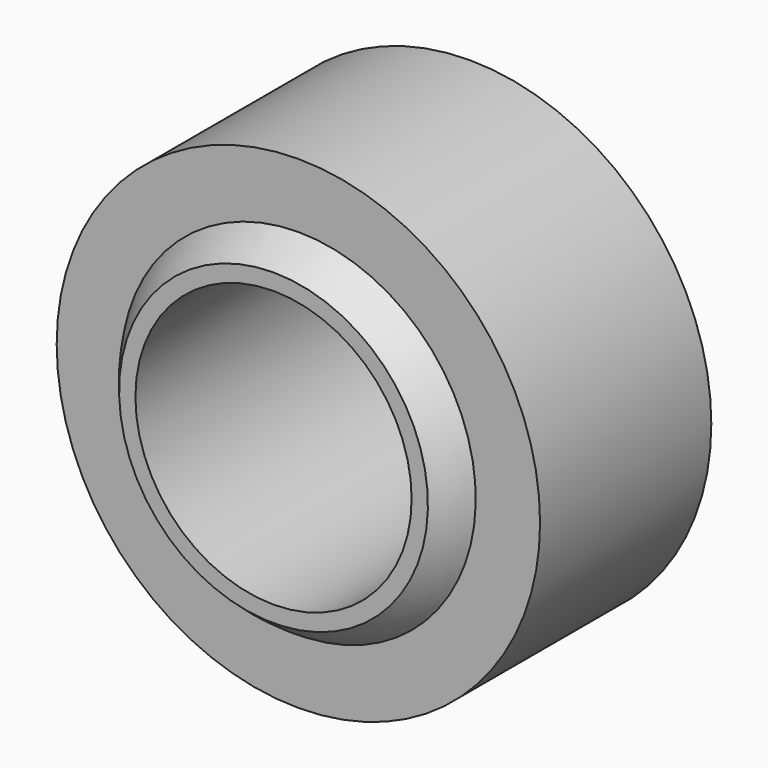
from build123d import *


with BuildPart() as f1:
    # F0 (on Right) → F1 (revolve)
    with BuildSketch(Plane.YZ):
        with BuildLine():
            Line((12.7, 12.7), (12.7, 14.199032))
            ThreePointArc((12.7, 14.199032), (11.320579, 15.321456), (9.8425, 16.310355))
            ThreePointArc((9.8425, 16.310355), (0, 19.05), (-9.8425, 16.310355))
            ThreePointArc((-9.8425, 16.310355), (-11.320579, 15.321456), (-12.7, 14.199032))
            Line((-12.7, 14.199032), (-12.7, 12.7))
            Line((-12.7, 12.7), (12.7, 12.7))
        make_face()
    revolve(axis=Axis((0, 1.825226, 0), (0, 1, 0)))


with BuildPart() as f2:
    # F0 (on Right) → F2 (revolve)
    with BuildSketch(Plane.YZ):
        with BuildLine():
            ThreePointArc((-9.8425, 16.310355), (0, 19.05), (9.8425, 16.310355))
            Line((9.8425, 16.310355), (9.8425, 22.225))
            Line((9.8425, 22.225), (-9.8425, 22.225))
            Line((-9.8425, 22.225), (-9.8425, 16.310355))
        make_face()
    revolve(axis=Axis((0, 1.825226, 0), (0, 1, 0)))


solid = Compound([f1.part, f2.part])
